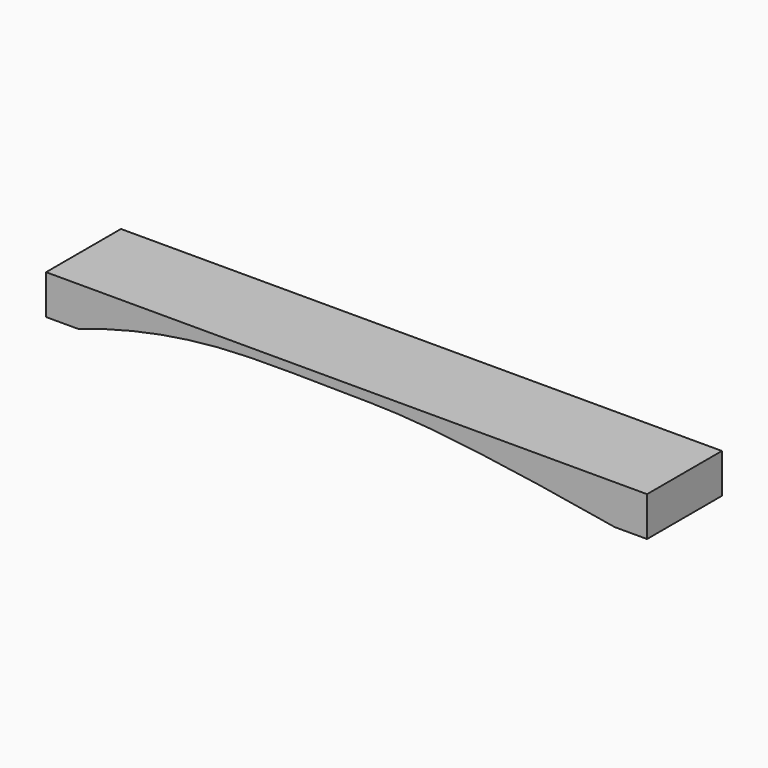
from build123d import *

# Parameters (mm, degrees)
BAR_DEPTH = 68.58


with BuildPart() as part:
    # Sketch → Bar (new body)
    with BuildSketch(Plane.XZ):
        with BuildLine():
            Line((23.58, 0), (0, 0))
            Line((0, 0), (0, 28.96))
            Line((0, 28.96), (440.4, 28.96))
            Line((440.4, 28.96), (440.4, 0))
            Line((440.4, 0), (416.82, 0))
            add(Edge.make_bspline(
                [(416.82, 0), (296.03, 20.95), (224.26, 22.21), (188.45, 22.89), (88.83, 22.5), (23.58, 0)],
                knots=[0, 0, 0, 0, 0.333333, 0.666667, 1, 1, 1, 1], degree=3))
        make_face()
    extrude(amount=BAR_DEPTH)


solid = part.part
